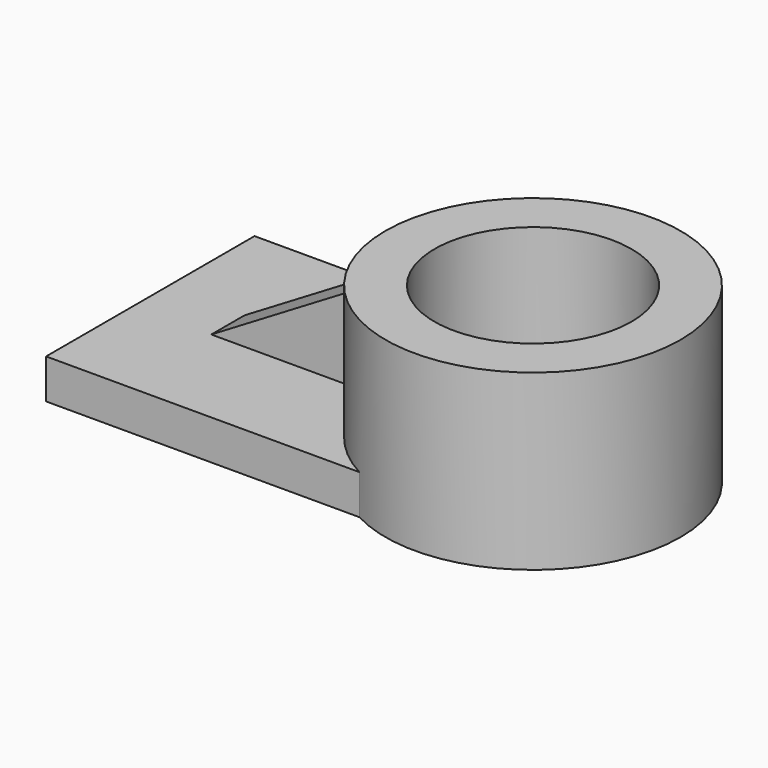
from build123d import *

# Parameters (mm, degrees)
F0_R     = 39.700031
F0_R_2   = 26.502297
F1_DEPTH = 46.736
F3_DEPTH = 10.668
F5_DEPTH = 5.588


with BuildPart() as f1:
    # F0 (on Top) → F1 (new body)
    with BuildSketch(Plane.XY):
        with Locations((39.700031, 0)):
            Circle(F0_R)
        with Locations((39.700031, 0)):
            Circle(F0_R_2, mode=Mode.SUBTRACT)
        with Locations((39.700031, 0)):
            Circle(F0_R)
        with Locations((39.700031, 0)):
            Circle(F0_R_2, mode=Mode.SUBTRACT)
    extrude(amount=F1_DEPTH)

    # F2 (on face) → F3 (join)
    with BuildSketch(Plane(origin=(0, 0, 0), x_dir=(1, 0, 0), z_dir=(0, 0, -1))):
        with BuildLine():
            Line((-63.262849, -35.048185), (21.052854, -35.048185))
            ThreePointArc((21.052854, -35.048185), (0, 0), (21.052854, 35.048185))
            Line((21.052854, 35.048185), (-63.262849, 35.048185))
            Line((-63.262849, 35.048185), (-63.262849, -35.048185))
        make_face()
    extrude(amount=-F3_DEPTH)

    # F4 (on Front) → F5 (join, symmetric)
    with BuildSketch(Plane.XZ):
        Polygon((4.870512, 38.895372), (-47.924407, 7.358584), (4.870512, 6.657766), align=None)
    extrude(amount=F5_DEPTH, both=True)


solid = f1.part
